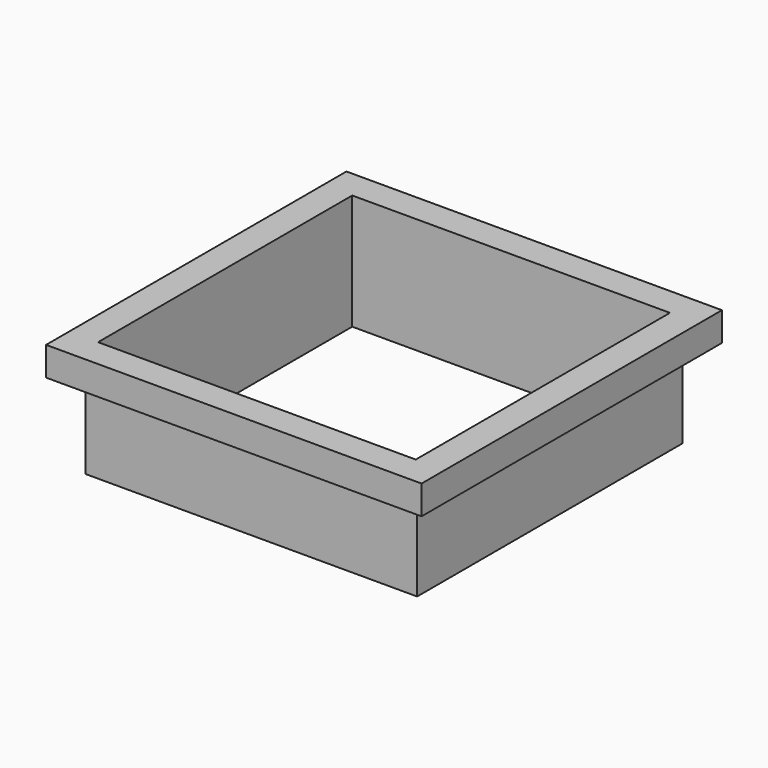
from build123d import *

# Parameters (mm, degrees)
F0_W     = 57.4
F0_H     = 57.4
F0_W_2   = 55
F0_H_2   = 55
F1_DEPTH = 20
F2_W     = 65
F2_H     = 65
F2_W_2   = 57.4
F2_H_2   = 57.4
F3_DEPTH = 5


with BuildPart() as f1:
    # F0 (on Top) → F1 (new body)
    with BuildSketch(Plane.XY):
        Rectangle(F0_W, F0_H)
        Rectangle(F0_W_2, F0_H_2, mode=Mode.SUBTRACT)
    extrude(amount=F1_DEPTH)

    # F2 (on face) → F3 (join)
    with BuildSketch(Plane.XY.offset(20)):
        Rectangle(F2_W, F2_H)
        Rectangle(F2_W_2, F2_H_2, mode=Mode.SUBTRACT)
    extrude(amount=-F3_DEPTH)


solid = f1.part
